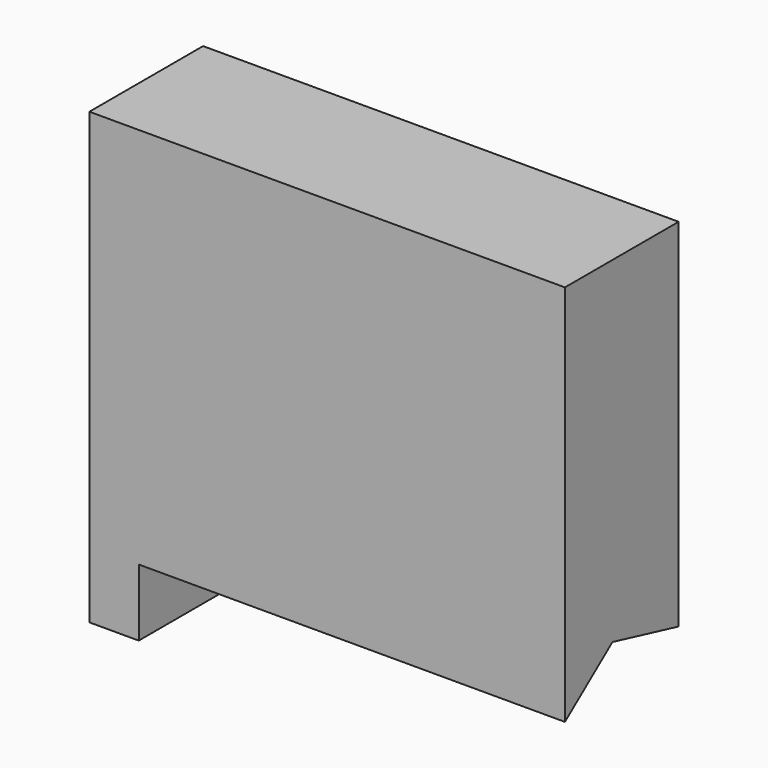
from build123d import *

# Parameters (mm, degrees)
F0_W     = 134.338587
F0_H     = 40.145545
F1_DEPTH = 127
F3_DEPTH = 120.391601


with BuildPart() as f1:
    # F0 (on Top) → F1 (new body)
    with BuildSketch(Plane.XY):
        with Locations((53.221307, -3.590211)):
            Rectangle(F0_W, F0_H)
    extrude(amount=F1_DEPTH)

    # F2 (on Right) → F3 (cut, through all)
    with BuildSketch(Plane.YZ):
        Polygon((20.078405, -25.822868), (32.707811, -0.402366), (20.707569, 25.321126), (-6.885895, 31.977293), (-29.29414, 14.553907), (-29.6433, -13.828869), (-7.67045, -31.798224), align=None)
    extrude(amount=F3_DEPTH, mode=Mode.SUBTRACT)


solid = f1.part
